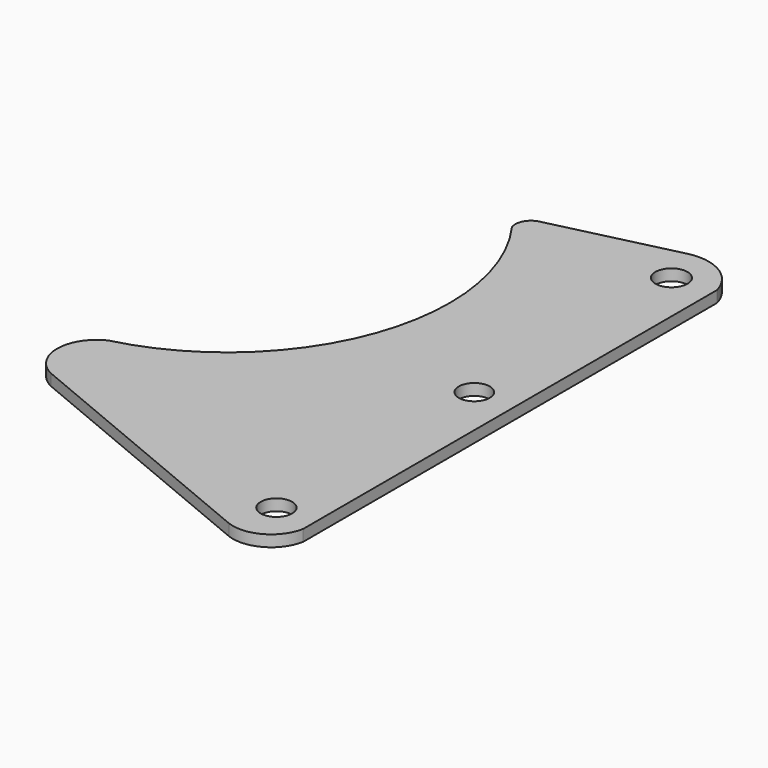
from build123d import *

# Parameters (mm, degrees)
F0_R     = 2.492008
F0_R_2   = 2.45277
F0_R_3   = 2.539594
F1_DEPTH = 1.8


with BuildPart() as f1:
    # F0 (on Top) → F1 (new body)
    with BuildSketch(Plane.XY):
        with BuildLine():
            Line((-50.339356, -66.981845), (-8.10042, -84.58598))
            ThreePointArc((-8.10042, -84.58598), (-2.989306, -84.200884), (0, -80.037251))
            Line((0, -80.037251), (0, 1.829881))
            ThreePointArc((0, 1.829881), (-3.406029, 6.28153), (-8.948847, 7.11543))
            Line((-8.948847, 7.11543), (-28.766483, 2.37366))
            ThreePointArc((-28.766483, 2.37366), (-30.224163, 1.08954), (-30.308826, -0.851239))
            ThreePointArc((-30.308826, -0.851239), (-25.761186, -33.597985), (-50.339356, -55.710062))
            ThreePointArc((-50.339356, -55.710062), (-53.87346, -61.345953), (-50.339356, -66.981845))
        make_face()
        with Locations((-6.138234, -77.649219)):
            Circle(F0_R, mode=Mode.SUBTRACT)
        with Locations((-6.351363, -38.250507)):
            Circle(F0_R_2, mode=Mode.SUBTRACT)
        with Locations((-6.43489, 0.851118)):
            Circle(F0_R_3, mode=Mode.SUBTRACT)
    extrude(amount=F1_DEPTH)


solid = f1.part
